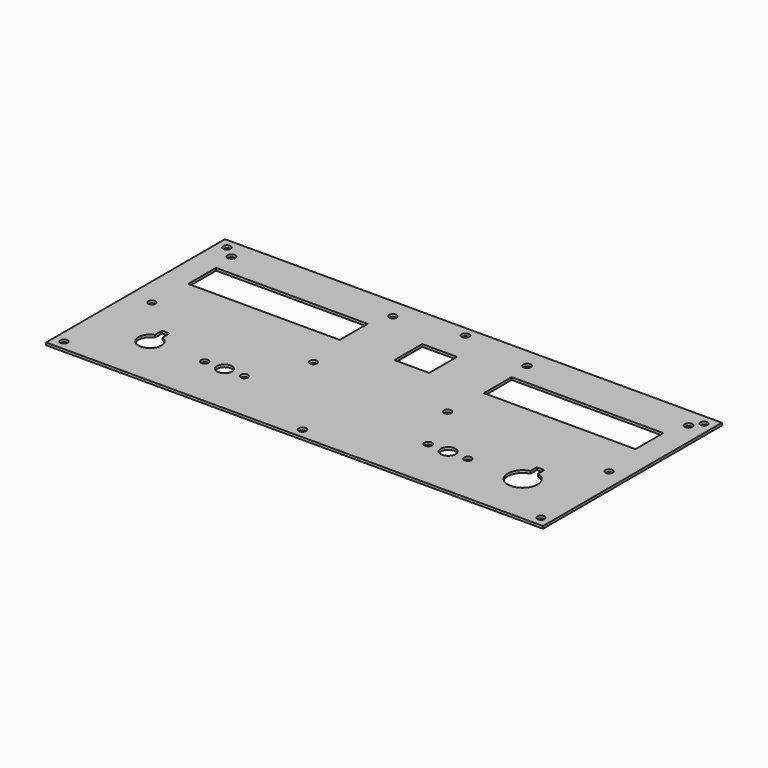
from build123d import *

# Parameters (mm, degrees)
BOX001_W     = 3
BOX001_H     = 4
BOX001_DEPTH = 15
BOX_W        = 3
BOX_H        = 4
BOX_DEPTH    = 15
SKETCH_W     = 200
SKETCH_H     = 90
SKETCH_R     = 1.549855
SKETCH_R_2   = 1.534707
SKETCH_R_3   = 1.450363
SKETCH_R_4   = 1.487036
SKETCH_R_5   = 1.500003
SKETCH_R_6   = 1.546382
SKETCH_R_7   = 1.475806
SKETCH_R_8   = 1.470873
SKETCH_R_9   = 1.517779
SKETCH_R_10  = 1.459473
SKETCH_R_11  = 1.474048
SKETCH_R_12  = 1.452864
SKETCH_R_13  = 1.50738
SKETCH_R_14  = 1.532562
SKETCH_R_15  = 4.638624
SKETCH_R_16  = 3
SKETCH_R_17  = 1.469531
SKETCH_R_18  = 1.503215
SKETCH_R_19  = 1.49249
SKETCH_R_20  = 1.53474
SKETCH_R_21  = 6
SKETCH_W_2   = 61
SKETCH_H_2   = 14
SKETCH_W_3   = 14
PAD_DEPTH    = 1


with BuildPart() as cube001:
    # Box001 → Box001 (new body)
    with BuildSketch(Plane(origin=(173.5, 26, -7), x_dir=(1, 0, 0), z_dir=(0, 0, 1))):
        with Locations((1.5, 2)):
            Rectangle(BOX001_W, BOX001_H)
    extrude(amount=BOX001_DEPTH)


with BuildPart() as cube:
    # Box → Box (new body)
    with BuildSketch(Plane(origin=(23.5, 25, -7), x_dir=(1, 0, 0), z_dir=(0, 0, 1))):
        with Locations((1.5, 2)):
            Rectangle(BOX_W, BOX_H)
    extrude(amount=BOX_DEPTH)


with BuildPart() as cut001:
    # Sketch → Pad (new body)
    with BuildSketch(Plane.XY):
        with Locations((100, 45)):
            Rectangle(SKETCH_W, SKETCH_H)
        with Locations((9, 82)):
            Circle(SKETCH_R, mode=Mode.SUBTRACT)
        with Locations((128, 82)):
            Circle(SKETCH_R_2, mode=Mode.SUBTRACT)
        with Locations((9, 42)):
            Circle(SKETCH_R_3, mode=Mode.SUBTRACT)
        with Locations((128, 42)):
            Circle(SKETCH_R_4, mode=Mode.SUBTRACT)
        with Locations((74, 82)):
            Circle(SKETCH_R_5, mode=Mode.SUBTRACT)
        with Locations((193, 82)):
            Circle(SKETCH_R_6, mode=Mode.SUBTRACT)
        with Locations((74, 42)):
            Circle(SKETCH_R_7, mode=Mode.SUBTRACT)
        with Locations((193, 42)):
            Circle(SKETCH_R_8, mode=Mode.SUBTRACT)
        with Locations((4, 86)):
            Circle(SKETCH_R_9, mode=Mode.SUBTRACT)
        with Locations((196, 86)):
            Circle(SKETCH_R_10, mode=Mode.SUBTRACT)
        with Locations((196, 4)):
            Circle(SKETCH_R_11, mode=Mode.SUBTRACT)
        with Locations((4, 4)):
            Circle(SKETCH_R_12, mode=Mode.SUBTRACT)
        with Locations((100, 4)):
            Circle(SKETCH_R_13, mode=Mode.SUBTRACT)
        with Locations((100, 86)):
            Circle(SKETCH_R_14, mode=Mode.SUBTRACT)
        with Locations((25, 21)):
            Circle(SKETCH_R_15, mode=Mode.SUBTRACT)
        with Locations((55, 21)):
            Circle(SKETCH_R_16, mode=Mode.SUBTRACT)
        with Locations((63, 21)):
            Circle(SKETCH_R_17, mode=Mode.SUBTRACT)
        with Locations((47, 21)):
            Circle(SKETCH_R_18, mode=Mode.SUBTRACT)
        with Locations((145, 21)):
            Circle(SKETCH_R_16, mode=Mode.SUBTRACT)
        with Locations((153, 21)):
            Circle(SKETCH_R_19, mode=Mode.SUBTRACT)
        with Locations((137, 21)):
            Circle(SKETCH_R_20, mode=Mode.SUBTRACT)
        with Locations((175, 21)):
            Circle(SKETCH_R_21, mode=Mode.SUBTRACT)
        with Locations((40.5, 66)):
            Rectangle(SKETCH_W_2, SKETCH_H_2, mode=Mode.SUBTRACT)
        with Locations((100, 66)):
            Rectangle(SKETCH_W_3, SKETCH_H_2, mode=Mode.SUBTRACT)
        with Locations((159.5, 66)):
            Rectangle(SKETCH_W_2, SKETCH_H_2, mode=Mode.SUBTRACT)
    extrude(amount=PAD_DEPTH)

    # Cut: cut Cube
    add(cube.part, mode=Mode.SUBTRACT)

    # Cut001: cut Cube001
    add(cube001.part, mode=Mode.SUBTRACT)


solid = cut001.part
